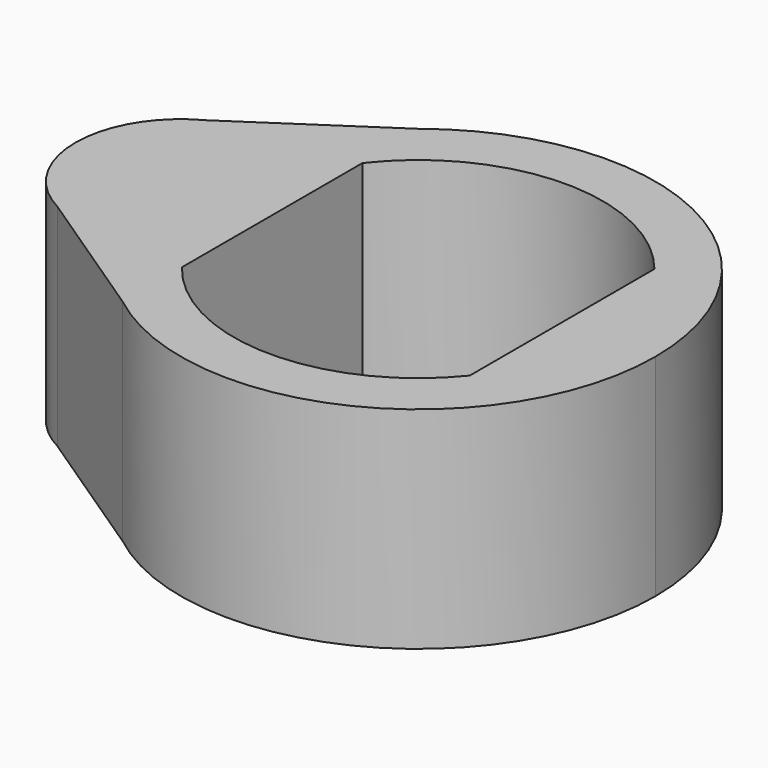
from build123d import *

# Parameters (mm, degrees)
F1_DEPTH = 4


with BuildPart() as f1:
    # F0 (on Top) → F1 (new body)
    with BuildSketch(Plane.XY):
        with BuildLine():
            ThreePointArc((2.7305957552, 2.1894855153), (3.3020512673, 1.1603695223), (3.5, 0))
            ThreePointArc((3.5, 0), (3.3020512673, -1.1603695223), (2.7305957552, -2.1894855153))
            ThreePointArc((2.7305957552, -2.1894855153), (-0.0313705619, -3.4998594097), (-2.7694042448, -2.1401869378))
            ThreePointArc((-2.7694042448, -2.1401869378), (-2.9857476275, -1.8262834131), (-3.1666666667, -1.490711985))
            ThreePointArc((-3.1666666667, -1.490711985), (-3.5819270129, -1.7768348236), (-4.0555555556, -1.9499920861))
            ThreePointArc((-4.0555555556, -1.9499920861), (-3.5046450025, -2.8226695532), (-2.7694042448, -3.5468859763))
            ThreePointArc((-2.7694042448, -3.5468859763), (1.9732816447, -4.0442749104), (4.5, 0))
            ThreePointArc((4.5, 0), (1.9521060509, 4.0545384405), (-2.8063475404, 3.5177284549))
            ThreePointArc((-2.8063475404, 3.5177284549), (-3.5193575913, 2.8043042176), (-4.0555555556, 1.9499920861))
            ThreePointArc((-4.0555555556, 1.9499920861), (-3.5819270129, 1.7768348236), (-3.1666666667, 1.490711985))
            ThreePointArc((-3.1666666667, 1.490711985), (-2.9857476275, 1.8262834131), (-2.7694042448, 2.1401869378))
            ThreePointArc((-2.7694042448, 2.1401869378), (-0.0313705619, 3.4998594097), (2.7305957552, 2.1894855153))
        make_face()
        with BuildLine():
            Line((-2.7694042448, 1.0025160009), (-2.7694042448, 2.1401869378))
            ThreePointArc((-2.7694042448, 2.1401869378), (-2.9857476275, 1.8262834131), (-3.1666666667, 1.490711985))
            ThreePointArc((-3.1666666667, 1.490711985), (-2.9487104736, 1.2623394177), (-2.7694042448, 1.0025160009))
        make_face()
        with BuildLine():
            ThreePointArc((-2.7694042448, 1.0025160009), (-2.9487104736, 1.2623394177), (-3.1666666667, 1.490711985))
            ThreePointArc((-3.1666666667, 1.490711985), (-3.5, 0), (-3.1666666667, -1.490711985))
            ThreePointArc((-3.1666666667, -1.490711985), (-2.9487104736, -1.2623394177), (-2.7694042448, -1.0025160009))
            Line((-2.7694042448, -1.0025160009), (-2.7694042448, 1.0025160009))
        make_face()
        with BuildLine():
            ThreePointArc((-3.1666666667, -1.490711985), (-2.9857476275, -1.8262834131), (-2.7694042448, -2.1401869378))
            Line((-2.7694042448, -2.1401869378), (-2.7694042448, -1.0025160009))
            ThreePointArc((-2.7694042448, -1.0025160009), (-2.9487104736, -1.2623394177), (-3.1666666667, -1.490711985))
        make_face()
        with BuildLine():
            ThreePointArc((2.7305957552, -2.1894855153), (3.3020512673, -1.1603695223), (3.5, 0))
            ThreePointArc((3.5, 0), (3.3020512673, 1.1603695223), (2.7305957552, 2.1894855153))
            Line((2.7305957552, 2.1894855153), (2.7305957552, -2.1894855153))
        make_face()
        with BuildLine():
            ThreePointArc((2.7305957552, 2.1894855153), (3.3020512673, 1.1603695223), (3.5, 0))
            ThreePointArc((3.5, 0), (3.3020512673, -1.1603695223), (2.7305957552, -2.1894855153))
            ThreePointArc((2.7305957552, -2.1894855153), (-0.0313705619, -3.4998594097), (-2.7694042448, -2.1401869378))
            ThreePointArc((-2.7694042448, -2.1401869378), (-2.9857476275, -1.8262834131), (-3.1666666667, -1.490711985))
            ThreePointArc((-3.1666666667, -1.490711985), (-3.5819270129, -1.7768348236), (-4.0555555556, -1.9499920861))
            ThreePointArc((-4.0555555556, -1.9499920861), (-3.5046450025, -2.8226695532), (-2.7694042448, -3.5468859763))
            ThreePointArc((-2.7694042448, -3.5468859763), (1.9732816447, -4.0442749104), (4.5, 0))
            ThreePointArc((4.5, 0), (1.9521060509, 4.0545384405), (-2.8063475404, 3.5177284549))
            ThreePointArc((-2.8063475404, 3.5177284549), (-3.5193575913, 2.8043042176), (-4.0555555556, 1.9499920861))
            ThreePointArc((-4.0555555556, 1.9499920861), (-3.5819270129, 1.7768348236), (-3.1666666667, 1.490711985))
            ThreePointArc((-3.1666666667, 1.490711985), (-2.9857476275, 1.8262834131), (-2.7694042448, 2.1401869378))
            ThreePointArc((-2.7694042448, 2.1401869378), (-0.0313705619, 3.4998594097), (2.7305957552, 2.1894855153))
        make_face()
        with BuildLine():
            ThreePointArc((-5.424220841, 1.7736447889), (-4.7555796157, 1.9836025459), (-4.0555555556, 1.9499920861))
            ThreePointArc((-4.0555555556, 1.9499920861), (-3.5193575913, 2.8043042176), (-2.8063475404, 3.5177284549))
            Line((-2.8063475404, 3.5177284549), (-5.424220841, 1.7736447889))
        make_face()
        with BuildLine():
            ThreePointArc((-4.0555555556, -1.9499920861), (-4.5, 0), (-4.0555555556, 1.9499920861))
            ThreePointArc((-4.0555555556, 1.9499920861), (-4.7555796157, 1.9836025459), (-5.424220841, 1.7736447889))
            ThreePointArc((-5.424220841, 1.7736447889), (-6.5, 0), (-5.424220841, -1.7736447889))
            ThreePointArc((-5.424220841, -1.7736447889), (-4.7555796157, -1.9836025459), (-4.0555555556, -1.9499920861))
        make_face()
        with BuildLine():
            ThreePointArc((-3.1666666667, -1.490711985), (-3.5, 0), (-3.1666666667, 1.490711985))
            ThreePointArc((-3.1666666667, 1.490711985), (-3.5819270129, 1.7768348236), (-4.0555555556, 1.9499920861))
            ThreePointArc((-4.0555555556, 1.9499920861), (-4.5, 0), (-4.0555555556, -1.9499920861))
            ThreePointArc((-4.0555555556, -1.9499920861), (-3.5819270129, -1.7768348236), (-3.1666666667, -1.490711985))
        make_face()
        with BuildLine():
            ThreePointArc((-2.7694042448, 1.0025160009), (-2.9487104736, 1.2623394177), (-3.1666666667, 1.490711985))
            ThreePointArc((-3.1666666667, 1.490711985), (-3.5, 0), (-3.1666666667, -1.490711985))
            ThreePointArc((-3.1666666667, -1.490711985), (-2.9487104736, -1.2623394177), (-2.7694042448, -1.0025160009))
            Line((-2.7694042448, -1.0025160009), (-2.7694042448, 1.0025160009))
        make_face()
        with BuildLine():
            ThreePointArc((-2.7694042448, -3.5468859763), (-3.5046450025, -2.8226695532), (-4.0555555556, -1.9499920861))
            ThreePointArc((-4.0555555556, -1.9499920861), (-4.7555796157, -1.9836025459), (-5.424220841, -1.7736447889))
            Line((-5.424220841, -1.7736447889), (-2.7694042448, -3.5468859763))
        make_face()
    extrude(amount=F1_DEPTH)


solid = f1.part
